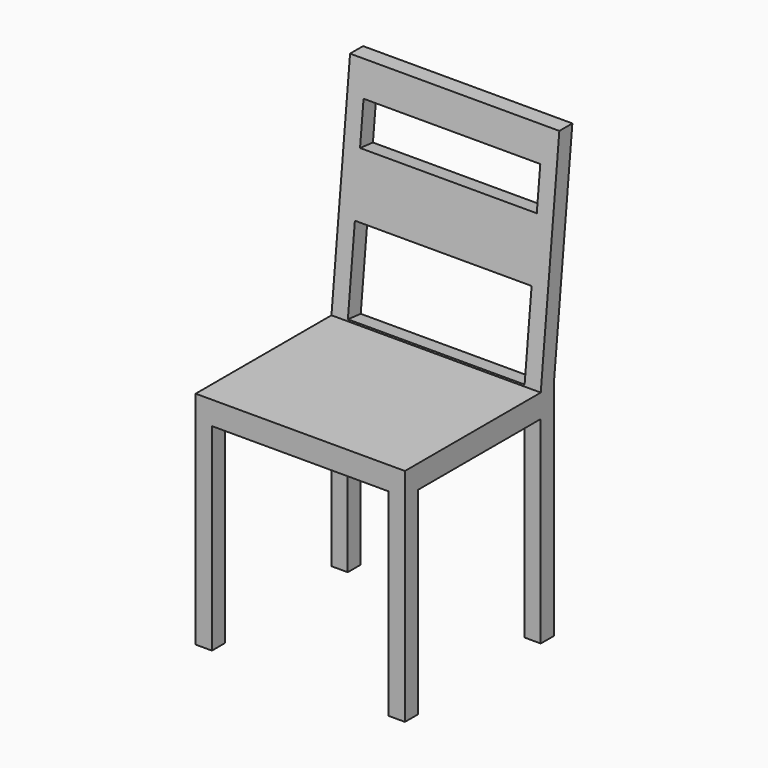
from build123d import *

# Parameters (mm, degrees)
F0_W     = 450
F0_H     = 450
F1_DEPTH = 950
F2_W     = 50
F2_H     = 50
F2_W_2   = 330
F2_H_2   = 425
F3_DEPTH = 450.001
F4_W     = 380
F4_H     = 425
F5_DEPTH = 450.001
F6_W     = 380
F6_H     = 180
F6_H_2   = 90
F7_DEPTH = 447.528454


with BuildPart() as f1:
    # F0 (on Top) → F1 (new body)
    with BuildSketch(Plane.XY):
        Rectangle(F0_W, F0_H)
    extrude(amount=F1_DEPTH)

    # F2 (on face) → F3 (cut, through all)
    with BuildSketch(Plane.YZ.offset(225)):
        with Locations((200, 450)):
            Rectangle(F2_W, F2_H)
        Polygon((-225, 475), (140, 475), (190, 950), (-225, 950), align=None)
        with Locations((-25, 212.5)):
            Rectangle(F2_W_2, F2_H_2)
        with Locations((200, 212.5)):
            Rectangle(F2_W, F2_H_2)
        Polygon((175, 475), (225, 475), (225, 950), align=None)
    extrude(amount=-F3_DEPTH, mode=Mode.SUBTRACT)

    # F4 (on face) → F5 (cut, through all)
    with BuildSketch(Plane.XZ.offset(225)):
        with Locations((0, 212.5)):
            Rectangle(F4_W, F4_H)
    extrude(amount=-F5_DEPTH, mode=Mode.SUBTRACT)

    # F6 (on face) → F7 (cut, through all)
    with BuildSketch(Plane(origin=(0, 123.630137, -13.013699), x_dir=(-1, 0, 0), z_dir=(0, 0.994505, -0.104685))):
        with Locations((0, 580.709927)):
            Rectangle(F6_W, F6_H)
        with Locations((0, 848.334257)):
            Rectangle(F6_W, F6_H_2)
    extrude(amount=-F7_DEPTH, mode=Mode.SUBTRACT)


solid = f1.part
